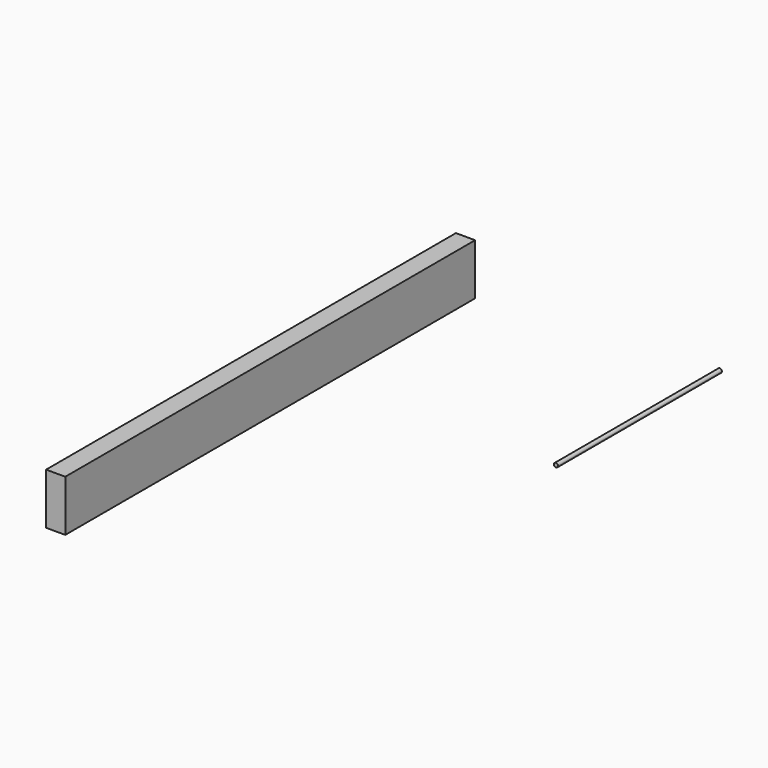
from build123d import *

# Parameters (mm, degrees)
F0_R     = 2
F1_DEPTH = 200
F2_W     = 18.75
F2_H     = 50
F3_DEPTH = 500


with BuildPart() as f1:
    # F0 (on Front) → F1 (new body)
    with BuildSketch(Plane.XZ):
        with Locations((-12.730263, 15.689107)):
            Circle(F0_R)
    extrude(amount=F1_DEPTH)


with BuildPart() as f3:
    # F2 (on Front) → F3 (new body)
    with BuildSketch(Plane.XZ):
        with Locations((-261.013227, 25)):
            Rectangle(F2_W, F2_H)
    extrude(amount=F3_DEPTH)


solid = Compound([f1.part, f3.part])
